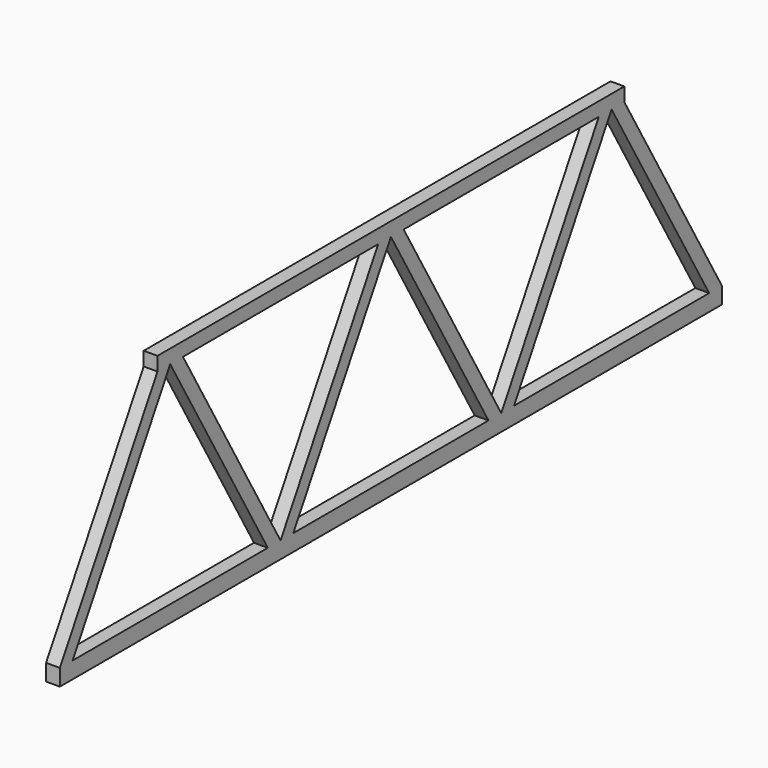
from build123d import *

# Parameters (mm, degrees)
F1_DEPTH = 5


with BuildPart() as f1:
    # F0 (on Right) → F1 (new body)
    with BuildSketch(Plane.YZ):
        Polygon((133.548133, 40.009566), (139.321636, 40.009566), (139.321636, 45.009566), (-72.22537, 45.009566), (-72.22537, 40.009566), (-66.451867, 40.009566), (-60.678364, 40.009566), (27.77463, 40.009566), (33.548133, 40.009566), (39.321636, 40.009566), (127.77463, 40.009566), align=None)
        Polygon((-72.22537, 40.009566), (-116.451867, -36.592975), (-110.678364, -36.592975), (-66.451867, 40.009566), align=None)
        Polygon((-66.451867, 40.009566), (-22.22537, -36.592975), (-16.451867, -36.592975), (-60.678364, 40.009566), align=None)
        Polygon((-116.451867, -42.592975), (183.548133, -42.592975), (183.548133, -36.592975), (177.77463, -36.592975), (89.321636, -36.592975), (83.548133, -36.592975), (77.77463, -36.592975), (-10.678364, -36.592975), (-16.451867, -36.592975), (-22.22537, -36.592975), (-110.678364, -36.592975), (-116.451867, -36.592975), align=None)
        Polygon((27.77463, 40.009566), (-16.451867, -36.592975), (-10.678364, -36.592975), (33.548133, 40.009566), align=None)
        Polygon((77.77463, -36.592975), (83.548133, -36.592975), (39.321636, 40.009566), (33.548133, 40.009566), align=None)
        Polygon((83.548133, -36.592975), (89.321636, -36.592975), (133.548133, 40.009566), (127.77463, 40.009566), align=None)
        Polygon((177.77463, -36.592975), (183.548133, -36.592975), (139.321636, 40.009566), (133.548133, 40.009566), align=None)
    extrude(amount=F1_DEPTH)


solid = f1.part
